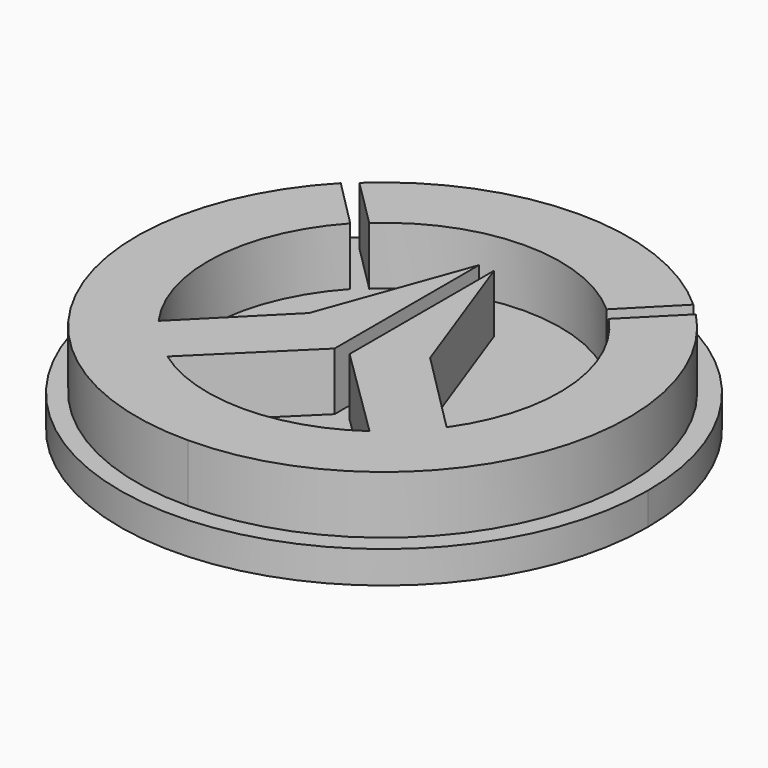
from build123d import *

# Parameters (mm, degrees)
F1_DEPTH = 9
F2_R     = 1.125
F3_DEPTH = 5


with BuildPart() as f1:
    # F0 (on Top) → F1 (new body)
    with BuildSketch(Plane.XY):
        with BuildLine():
            ThreePointArc((-27.7851572983, 25.6478241513), (-35.3300224623, -15.8244609789), (0, -38.8171758487))
            ThreePointArc((0, -38.8171758487), (35.0651386041, -15.6772961153), (27.4986219097, 25.6478270487))
            Line((27.4986219097, 25.6478270487), (19.9710316921, 18.0886201117))
            ThreePointArc((19.9710316921, 18.0886201117), (27.3438998715, 1.2276154513), (22.4135696041, -16.5021478523))
            Line((22.4135696041, -16.5021478523), (9.429158096, -3.4792004982))
            Line((9.429158096, -3.4792004982), (1.1633894868, 19.2951941875))
            Line((1.1633894868, 19.2951941875), (1.1633894868, -8.8191203378))
            Line((1.1633894868, -8.8191203378), (15.7350308146, -23.1601556565))
            ThreePointArc((15.7350308146, -23.1601556565), (-0.0039367496, -28.1601458159), (-15.7438228851, -23.1630480561))
            Line((-15.7438228851, -23.1630480561), (-1.1745452514, -8.8191203378))
            Line((-1.1745452514, -8.8191203378), (-1.1745452514, 19.2951941875))
            Line((-1.1745452514, 19.2951941875), (-9.439389619, -3.4792004982))
            Line((-9.439389619, -3.4792004982), (-22.4207109125, -16.5050480561))
            ThreePointArc((-22.4207109125, -16.5050480561), (-27.4892093495, 1.1744861794), (-20.2602444936, 18.0859519439))
            Line((-20.2602444936, 18.0859519439), (-27.7851572983, 25.6478241513))
        make_face()
    extrude(amount=F1_DEPTH)


with BuildPart() as f1b:
    # F0 (on Top) → F1, piece 2 (new body)
    with BuildSketch(Plane.XY):
        with BuildLine():
            Line((18.2007942971, 19.8873482903), (25.6706493045, 27.4483482903))
            ThreePointArc((25.6706493045, 27.4483482903), (-0.2626638955, 37.3820908069), (-26.0717600144, 27.129943157))
            Line((-26.0717600144, 27.129943157), (-18.5103627229, 19.5943929955))
            ThreePointArc((-18.5103627229, 19.5943929955), (-0.2115154455, 26.8500413147), (18.2007942971, 19.8873482903))
        make_face()
    extrude(amount=F1_DEPTH)


with BuildPart() as f3:
    # F2 (on Top) → F3 (new body)
    with BuildSketch(Plane.XY):
        with BuildLine():
            ThreePointArc((-3.1680287262, 40.2576545843), (-27.8686418755, -30.8912355971), (41.137237508, -0.7171825961))
            ThreePointArc((41.137237508, -0.7171825961), (30.1829046543, 27.2193347766), (3.1591944081, 40.2640845141))
            add(Edge.make_bspline(
                [(-0.0044802468, 35.9473205903), (3.0767209483, 35.9473205903), (3.1591944081, 40.2640845141)],
                knots=[0, 0, 0, 1.5440264712, 1.5440264712, 1.5440264712], degree=2, weights=[1, 0.7165077314, 1]))
            add(Edge.make_bspline(
                [(-3.1680287262, 40.2576545843), (-3.0812146223, 35.9473205903), (-0.0044802468, 35.9473205903)],
                knots=[4.7406090401, 4.7406090401, 4.7406090401, 6.2831853072, 6.2831853072, 6.2831853072], degree=2, weights=[1, 0.7170133591, 1]))
        make_face()
        with BuildLine():
            add(Edge.make_bspline(
                [(-0.0044802468, 35.9473205903), (3.0767209483, 35.9473205903), (3.1591944081, 40.2640845141)],
                knots=[0, 0, 0, 1.5440264712, 1.5440264712, 1.5440264712], degree=2, weights=[1, 0.7165077314, 1]))
            ThreePointArc((3.1591944081, 40.2640845141), (-0.0045410765, 40.3828076201), (-3.1680287262, 40.2576545843))
            add(Edge.make_bspline(
                [(-3.1680287262, 40.2576545843), (-3.0812146223, 35.9473205903), (-0.0044802468, 35.9473205903)],
                knots=[4.7406090401, 4.7406090401, 4.7406090401, 6.2831853072, 6.2831853072, 6.2831853072], degree=2, weights=[1, 0.7170133591, 1]))
        make_face()
        with BuildLine():
            ThreePointArc((-3.1680287262, 40.2576545843), (-0.0045410765, 40.3828076201), (3.1591944081, 40.2640845141))
            add(Edge.make_bspline(
                [(3.1591944081, 40.2640845141), (3.2462675101, 44.821599455), (-0.0067750558, 44.8182936074), (-3.2598176216, 44.8149877598), (-3.1680287262, 40.2576545843)],
                knots=[1.5440264712, 1.5440264712, 1.5440264712, 3.1423177556, 3.1423177556, 4.7406090401, 4.7406090401, 4.7406090401], degree=2, weights=[1, 0.6973193338, 1, 0.6973193338, 1]))
        make_face()
        with Locations((0.0167925687, 42.6747910513)):
            Circle(F2_R, mode=Mode.SUBTRACT)
    extrude(amount=-F3_DEPTH)


solid = Compound([f1.part, f1b.part, f3.part])
